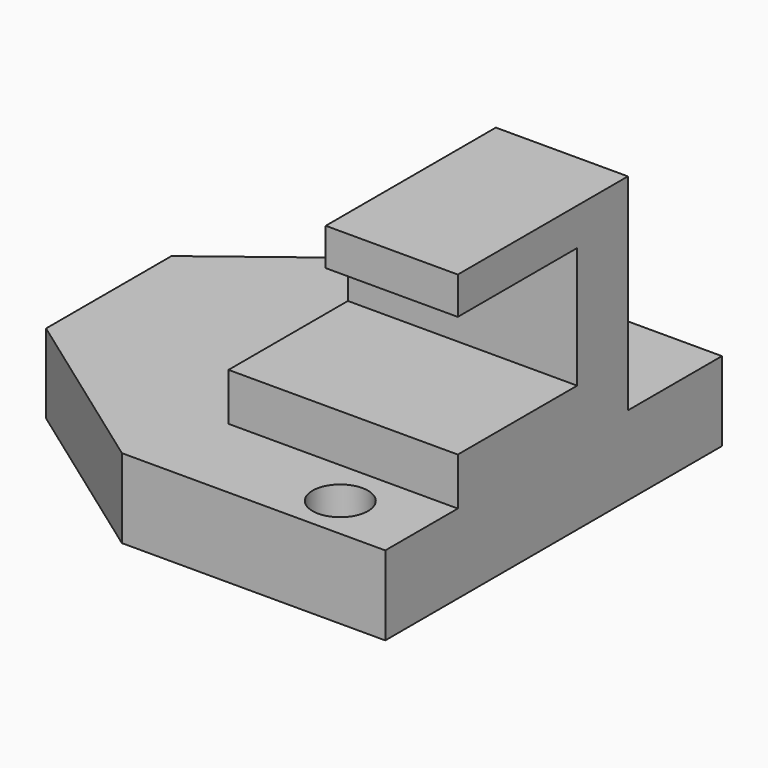
from build123d import *

# Parameters (mm, degrees)
F0_W      = 91.4067700505
F0_H      = 67.4502924085
F1_DEPTH  = 12.7
F3_DEPTH  = 25.4
F4_W      = 51.4017706737
F4_H      = 34.0803191066
F5_DEPTH  = 7.62
F6_W      = 21.1654342711
F6_H      = 34.0803191066
F7_DEPTH  = 25.4
F8_W      = 23.9177821204
F8_H      = 19.4233638573
F9_DEPTH  = 25.4
F10_W     = 14.652994927
F10_H     = 34.0803191066
F11_DEPTH = 7.62
F13_DEPTH = 10.16
F15_DEPTH = 25.4
F17_DEPTH = 25.4
F18_DEPTH = 10.16
F19_W     = 15.5833414756
F19_H     = 10.1625369862
F20_DEPTH = 10.16
F23_D     = 8.89


with BuildPart() as f1:
    # F0 (on Top) → F1 (new body)
    with BuildSketch(Plane.XY):
        with Locations((-3.4888088703, -14.8855820298)):
            Rectangle(F0_W, F0_H)
    extrude(amount=F1_DEPTH)

    # F2 (on face) → F3 (cut)
    with BuildSketch(Plane.XY.offset(12.7)):
        Polygon((-49.1921938956, 18.8395641744), (-49.1921938956, 0), (-15.6996361911, 18.8395641744), align=None)
        Polygon((-15.6996361911, -48.6107282341), (-49.1921938956, -23.0261329561), (-49.1921938956, -48.6107282341), align=None)
    extrude(amount=-F3_DEPTH, mode=Mode.SUBTRACT)

    # F4 (on face) → F5 (join)
    with BuildSketch(Plane.XY.offset(12.7)):
        with Locations((16.5136908181, -17.0401595533)):
            Rectangle(F4_W, F4_H)
    extrude(amount=F5_DEPTH)

    # F6 (on face) → F7 (join)
    with BuildSketch(Plane.XY.offset(20.32)):
        with Locations((31.6318590194, -17.0401595533)):
            Rectangle(F6_W, F6_H)
    extrude(amount=F7_DEPTH)

    # F8 (on face) → F9 (cut)
    with BuildSketch(Plane(origin=(21.0491418839, 0, 0), x_dir=(0, -1, 0), z_dir=(-1, 0, 0))):
        with Locations((22.1214280464, 30.0316819286)):
            Rectangle(F8_W, F8_H)
    extrude(amount=-F9_DEPTH, mode=Mode.SUBTRACT)

    # F10 (on face) → F11 (cut)
    with BuildSketch(Plane.XY.offset(20.32)):
        with Locations((-1.8606970552, -17.0401595533)):
            Rectangle(F10_W, F10_H)
    extrude(amount=-F11_DEPTH, mode=Mode.SUBTRACT)

    # F12 (on face) → F13 (join)
    with BuildSketch(Plane.XY.offset(20.32)):
        Polygon((21.0491418839, 0), (5.4658004083, 0), (5.4658004083, -13.4125072509), (21.0491418839, -13.4125072509), (21.0491418839, -10.1625369862), align=None)
    extrude(amount=F13_DEPTH)

    # F14 (on face) → F15 (cut)
    with BuildSketch(Plane.XY.offset(12.7)):
        Polygon((-28.525055022, -38.8135323032), (-28.525055022, 11.6252659037), (-49.1921938956, 0), (-49.1921938956, -23.0261329561), align=None)
    extrude(amount=-F15_DEPTH, mode=Mode.SUBTRACT)

    # F16 (on face) → F17 (cut)
    with BuildSketch(Plane.XY.offset(12.7)):
        Polygon((-28.525055022, 11.6252659037), (-28.525055022, -3.0236337334), (0, 18.8395641744), (-15.6996361911, 18.8395641744), align=None)
        Polygon((0, -48.6107282341), (-28.525055022, -28.1430520117), (-28.525055022, -38.8135323032), (-15.6996361911, -48.6107282341), align=None)
    extrude(amount=-F17_DEPTH, mode=Mode.SUBTRACT)

    # F18 (cut): a face of the model
    f18_faces = [f1.faces().sort_by_distance(p)[0] for p in [
        (13.2574711461, -6.7062536255, 30.48),
    ]]
    extrude(f18_faces, amount=-F18_DEPTH, mode=Mode.SUBTRACT)

    # F19 (on face) → F20 (join)
    with BuildSketch(Plane.XY.offset(20.32)):
        with Locations((13.2574711461, -5.0812684931)):
            Rectangle(F19_W, F19_H)
    extrude(amount=F20_DEPTH)

    # F23 (through all)
    with Locations(Plane.XY.offset(12.7)):
        with Locations((26.8638245761, 10.2338371798), (29.4222831726, -41.6331104934)):
            Hole(F23_D / 2)


solid = f1.part
